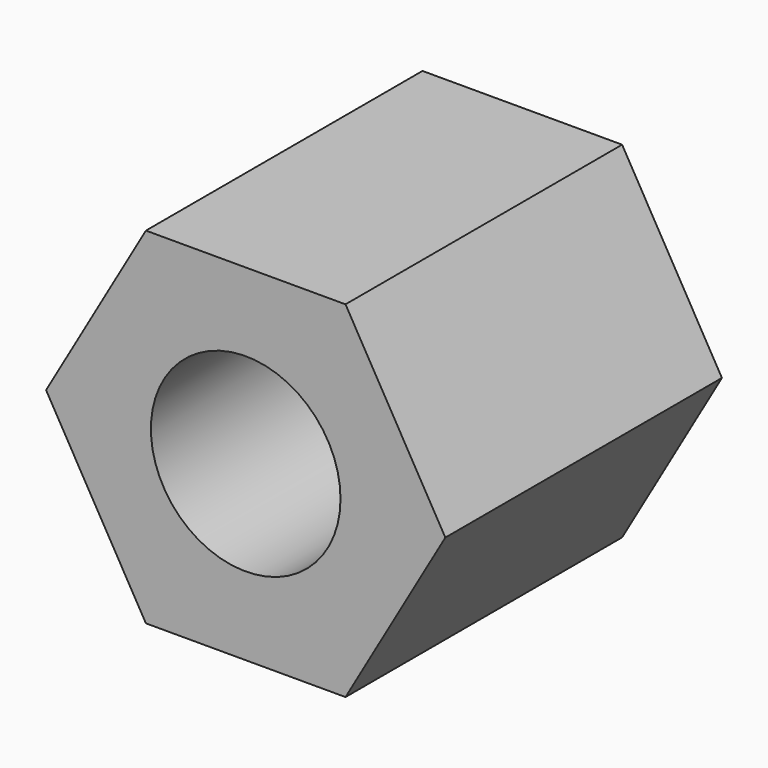
from build123d import *

# Parameters (mm, degrees)
F1_DEPTH = 101.6
F2_R     = 27.859806
F3_DEPTH = 101.6


with BuildPart() as f1:
    # F0 (on Front) → F1 (new body)
    with BuildSketch(Plane.XZ):
        Polygon((29.329394, 50.8), (-29.329394, 50.8), (-58.658787, 0), (-29.329394, -50.8), (29.329394, -50.8), (58.658787, 0), align=None)
    extrude(amount=F1_DEPTH)

    # F2 (on face) → F3 (cut)
    with BuildSketch(Plane.XZ.offset(101.6)):
        Circle(F2_R)
    extrude(amount=-F3_DEPTH, mode=Mode.SUBTRACT)


solid = f1.part
